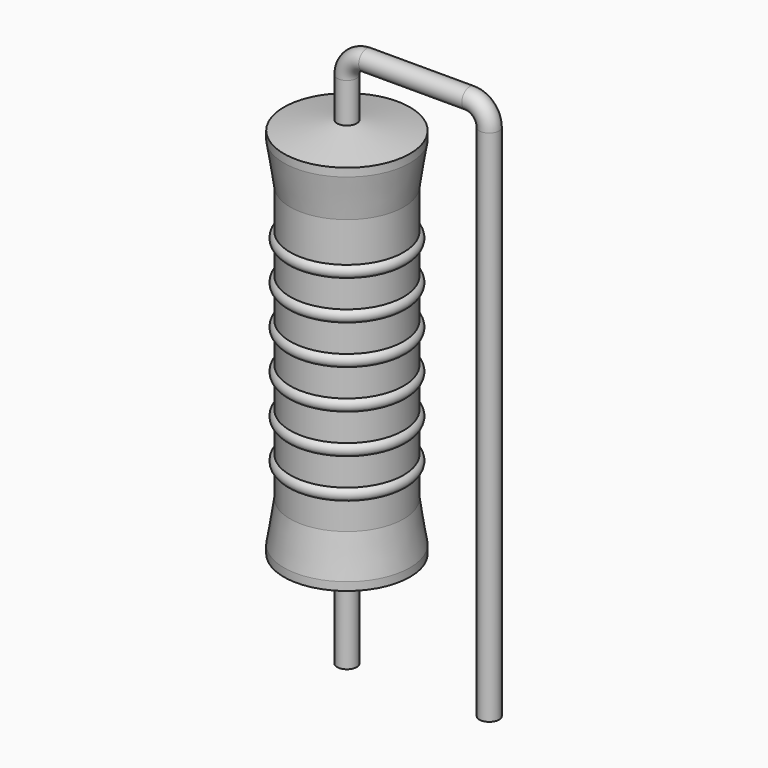
from build123d import *

# Parameters (mm, degrees)
SKETCH_R = 0.35


with BuildPart() as sweep_body:
    # Sweep: sweep along a path in Sketch001
    with BuildLine(Plane.XZ) as sweep_path:
        Line((0, -3), (0, 15.5))
        ThreePointArc((0, 15.5), (0.205028, 15.994978), (0.700008, 16.2))
        Line((0.700008, 16.2), (4.38, 16.2))
        ThreePointArc((4.38, 16.2), (4.874975, 15.994975), (5.08, 15.5))
        Line((5.08, 15.5), (5.08, -3))
    # Sketch → Sweep (sweep)
    with BuildSketch(Plane.XY.offset(-2)):
        Circle(SKETCH_R)
    sweep(path=sweep_path.line)


with BuildPart() as revolution:
    # Sketch002 → Revolution (revolve)
    with BuildSketch(Plane.XZ):
        Polygon((0, 0.1), (0, 14.1), (0.2625, 14.1), (2.25, 13.75), (2.25, 13.4575), (2.025, 12), (2.025, 2.2), (2.25, 0.7425), (2.25, 0.45), (0.2625, 0.1), align=None)
    revolve(axis=Axis((0, 0, 0), (0, 0, 1)))


with BuildPart() as revolution001:
    # Sketch003 → Revolution001 (revolve)
    with BuildSketch(Plane.XZ):
        with BuildLine():
            Line((1.8, 11.55), (1.8, 2.2))
            Line((1.8, 2.2), (1.935, 2.2))
            Line((1.935, 2.2), (1.935, 3.15))
            ThreePointArc((1.935, 3.15), (2.16, 3.375), (1.935, 3.6))
            Line((1.935, 3.6), (1.935, 4.55))
            ThreePointArc((1.935, 4.55), (2.16, 4.775), (1.935, 5))
            Line((1.935, 5), (1.935, 5.95))
            ThreePointArc((1.935, 5.95), (2.16, 6.175), (1.935, 6.4))
            Line((1.935, 6.4), (1.935, 7.35))
            ThreePointArc((1.935, 7.35), (2.16, 7.575), (1.935, 7.8))
            Line((1.935, 7.8), (1.935, 8.75))
            ThreePointArc((1.935, 8.75), (2.16, 8.975), (1.935, 9.2))
            Line((1.935, 9.2), (1.935, 10.15))
            ThreePointArc((1.935, 10.15), (2.16, 10.375), (1.935, 10.6))
            Line((1.935, 11.55), (1.935, 10.6))
            Line((1.8, 11.55), (1.935, 11.55))
        make_face()
    revolve(axis=Axis((0, 0, 0), (0, 0, 1)))


solid = Compound([sweep_body.part, revolution.part, revolution001.part])
